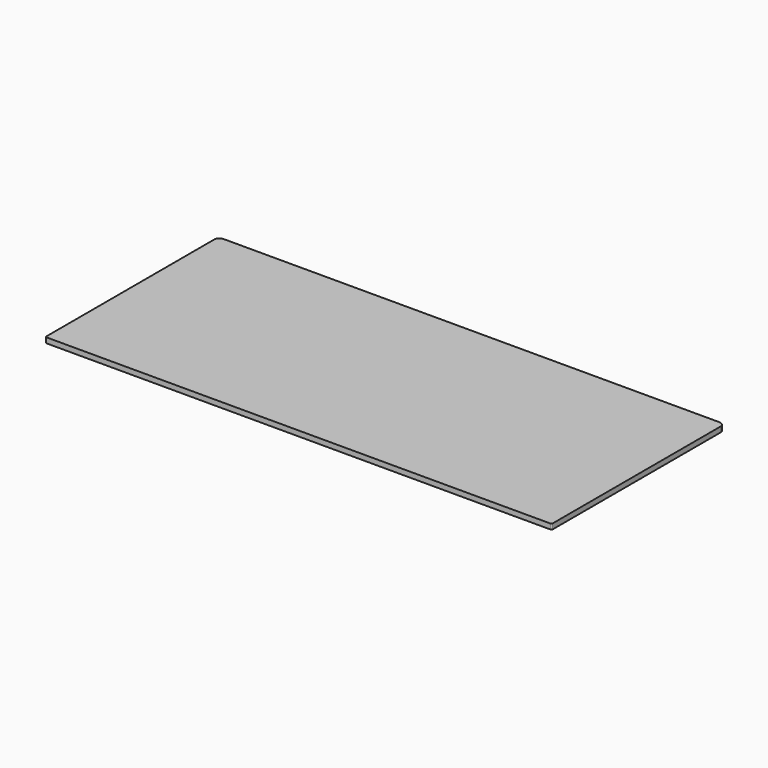
from build123d import *

# Parameters (mm, degrees)
F0_W     = 1219.2
F0_H     = 520.7
F1_DEPTH = 12.7
F2_R     = 3.175
F3_R     = 12.7


with BuildPart() as f1:
    # F0 (on Top) → F1 (new body)
    with BuildSketch(Plane.XY):
        Rectangle(F0_W, F0_H)
    extrude(amount=-F1_DEPTH)

    # F2
    f2_edges = [f1.edges().sort_by_distance(p)[0] for p in [
        (609.6, -260.35, -6.35),
        (-609.6, -260.35, -6.35),
    ]]
    fillet(f2_edges, radius=F2_R)

    # F3
    f3_edges = [f1.edges().sort_by_distance(p)[0] for p in [
        (609.6, 260.35, -6.35),
        (-609.6, 260.35, -6.35),
    ]]
    fillet(f3_edges, radius=F3_R)


solid = f1.part
